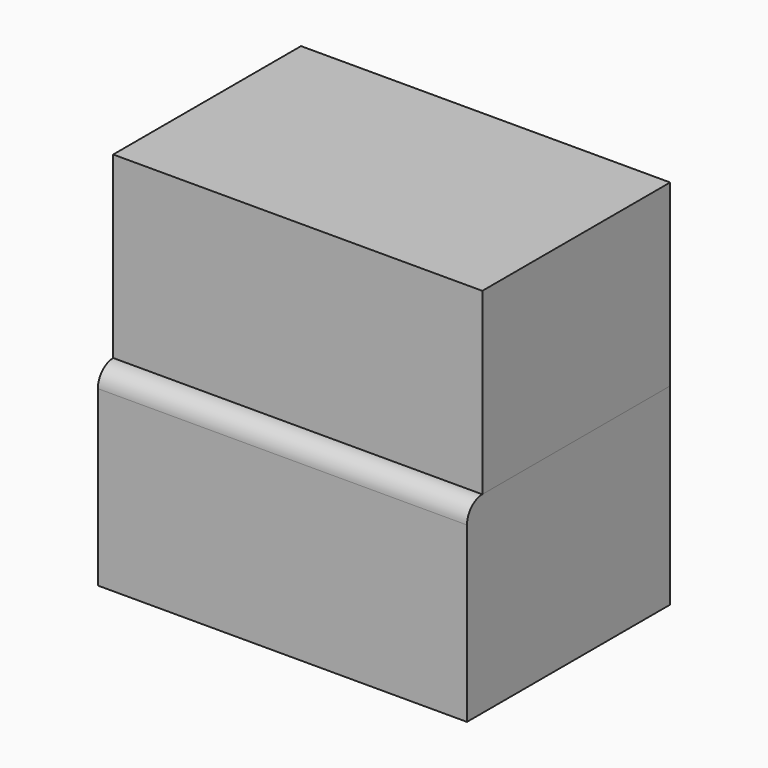
from build123d import *

# Parameters (mm, degrees)
F0_W      = 97.864177
F0_H      = 67.323104
F1_DEPTH  = 51.054
F2_R      = 5.08
F1_FACE_W = 97.864178
F1_FACE_H = 62.243104
F3_DEPTH  = 47.498


with BuildPart() as f1:
    # F0 (on Top) → F1 (new body)
    with BuildSketch(Plane.XY):
        with Locations((-6.312856, 0.407133)):
            Rectangle(F0_W, F0_H)
    extrude(amount=F1_DEPTH)

    # F2
    f2_edges = [f1.edges().sort_by_distance(p)[0] for p in [
        (-6.312856, -33.254419, 51.054),
    ]]
    fillet(f2_edges, radius=F2_R)

    # F1_face (on face) → F3 (join)
    with BuildSketch(Plane(origin=(-6.312856, 2.947133, 51.054), x_dir=(1, 0, 0), z_dir=(0, 0, 1))):
        Rectangle(F1_FACE_W, F1_FACE_H)
    extrude(amount=F3_DEPTH)


solid = f1.part
